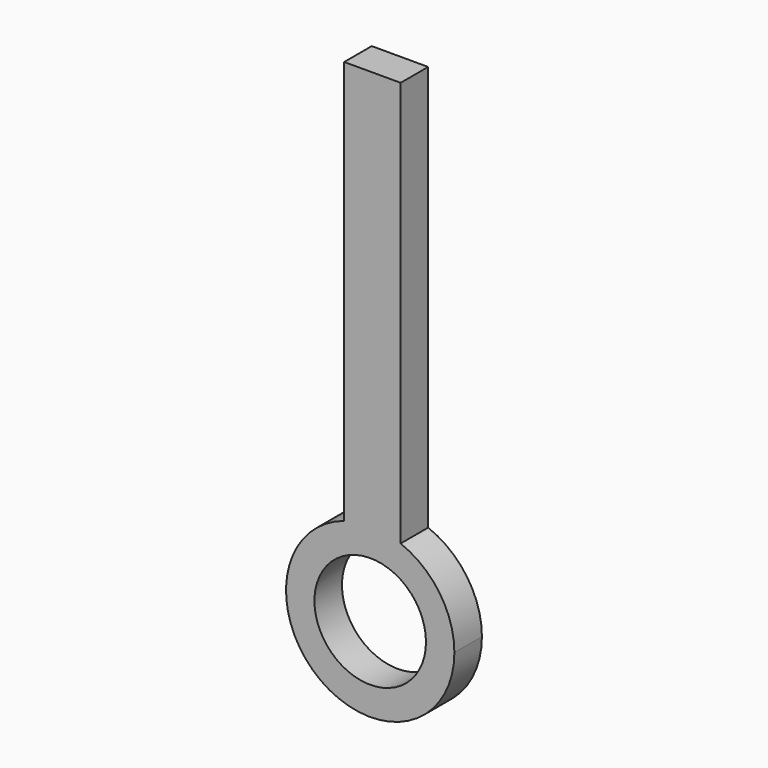
from build123d import *

# Parameters (mm, degrees)
F0_R     = 4.115829
F1_DEPTH = 1.27


with BuildPart() as f1:
    # F0 (on Front) → F1 (new body, symmetric)
    with BuildSketch(Plane.XZ):
        with BuildLine():
            ThreePointArc((-18.938706, 0.359932), (-16.847498, 0.660789), (-14.776399, 0.243397))
            Line((-14.776399, 0.243397), (-14.776399, 30.174541))
            Line((-14.776399, 30.174541), (-18.938706, 30.174541))
            Line((-18.938706, 30.174541), (-18.938706, 0.359932))
        make_face()
        with BuildLine():
            ThreePointArc((-18.938706, 0.359932), (-20.673798, -10.574059), (-10.809144, -5.548992))
            ThreePointArc((-10.809144, -5.548992), (-11.89604, -2.038619), (-14.776399, 0.243397))
            ThreePointArc((-14.776399, 0.243397), (-16.847498, 0.660789), (-18.938706, 0.359932))
        make_face()
        with Locations((-17.021358, -5.548992)):
            Circle(F0_R, mode=Mode.SUBTRACT)
    extrude(amount=F1_DEPTH, both=True)


solid = f1.part
